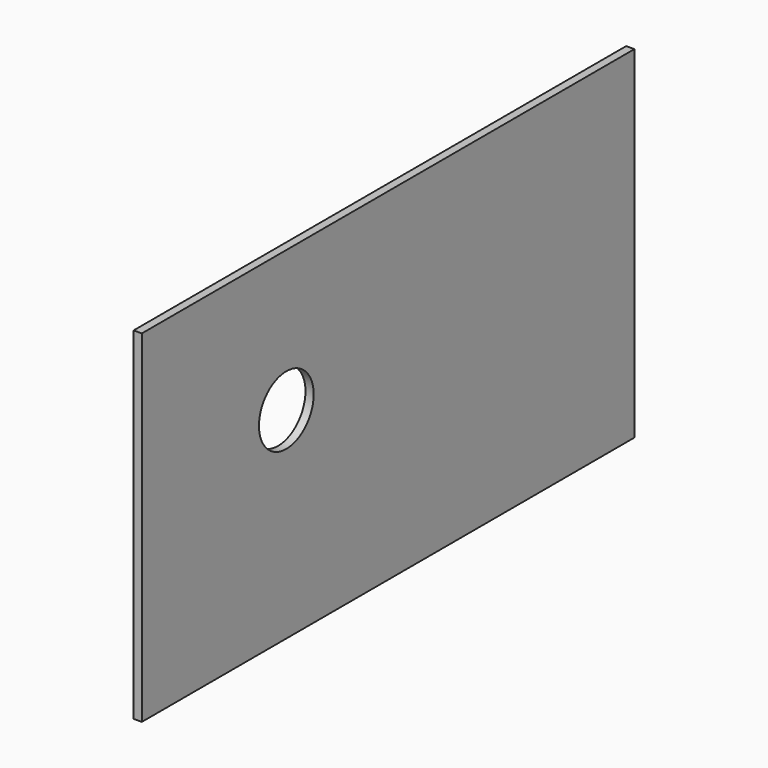
from build123d import *

# Parameters (mm, degrees)
SKETCH_W  = 450
SKETCH_H  = 250
SKETCH_R  = 25
PAD_DEPTH = 6


with BuildPart() as part:
    # Sketch → Pad (new body)
    with BuildSketch(Plane.YZ):
        with Locations((225, 125)):
            Rectangle(SKETCH_W, SKETCH_H)
        with Locations((132, 147)):
            Circle(SKETCH_R, mode=Mode.SUBTRACT)
    extrude(amount=PAD_DEPTH)


solid = part.part
